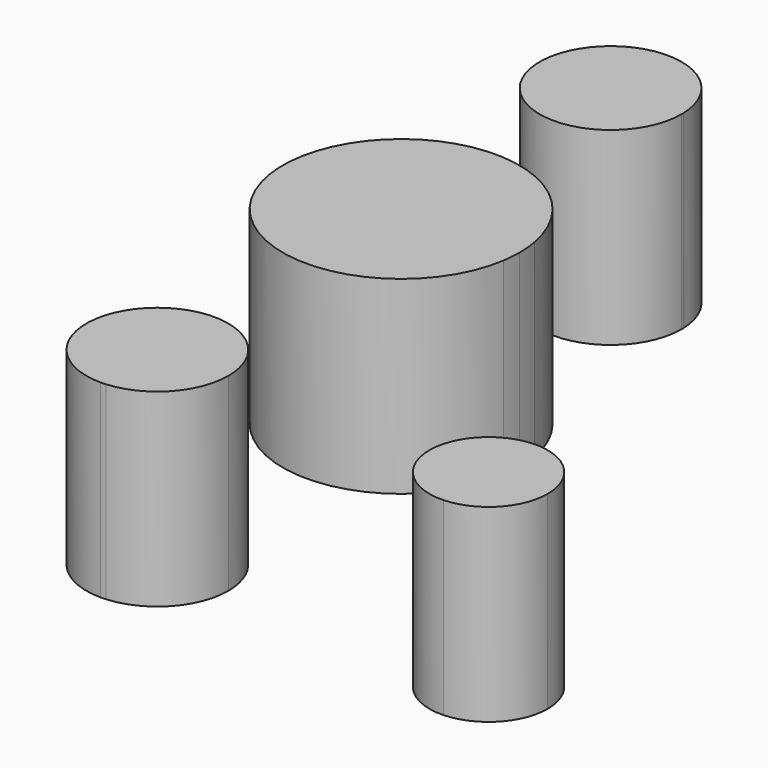
from build123d import *

# Parameters (mm, degrees)
F1_DEPTH = 25.4


with BuildPart() as f1:
    # F0 (on Top) → F1 (new body)
    with BuildSketch(Plane.XY):
        with BuildLine():
            ThreePointArc((-32.334431, 76.345818), (-51.378296, 75.887214), (-32.329523, 76.040095))
            ThreePointArc((-32.329523, 76.040095), (-32.33075, 76.192976), (-32.334431, 76.345818))
        make_face()
        with BuildLine():
            ThreePointArc((-25.979523, 40.891897), (-26.044963, 42.331843), (-26.240744, 43.759917))
            ThreePointArc((-26.240744, 43.759917), (-41.854515, 56.766897), (-57.468299, 43.759932))
            ThreePointArc((-57.468299, 43.759932), (-57.728208, 41.096224), (-57.536948, 38.426708))
            ThreePointArc((-57.536948, 38.426708), (-41.854523, 25.016897), (-26.172097, 38.426708))
            ThreePointArc((-26.172097, 38.426708), (-26.02774, 39.655547), (-25.979523, 40.891897))
        make_face()
        with BuildLine():
            ThreePointArc((10.532977, 0), (-3.11607, 5.511999), (2.877636, -7.932483))
            ThreePointArc((2.877636, -7.932483), (8.307024, -5.511999), (10.532977, 0))
        make_face()
        with BuildLine():
            ThreePointArc((-32.329523, 0), (-32.66, 2.487243), (-33.6285, 4.801892))
            ThreePointArc((-33.6285, 4.801892), (-50.105519, 4.758853), (-41.891651, -9.524928))
            Line((-41.891651, -9.524928), (-41.140741, -9.498218))
            ThreePointArc((-41.140741, -9.498218), (-34.871529, -6.477918), (-32.329523, 0))
        make_face()
        with BuildLine():
            Line((-41.140741, -9.498218), (-41.891651, -9.524928))
            ThreePointArc((-41.891651, -9.524928), (-41.515933, -9.51898), (-41.140741, -9.498218))
        make_face()
    extrude(amount=F1_DEPTH)


solid = f1.part
